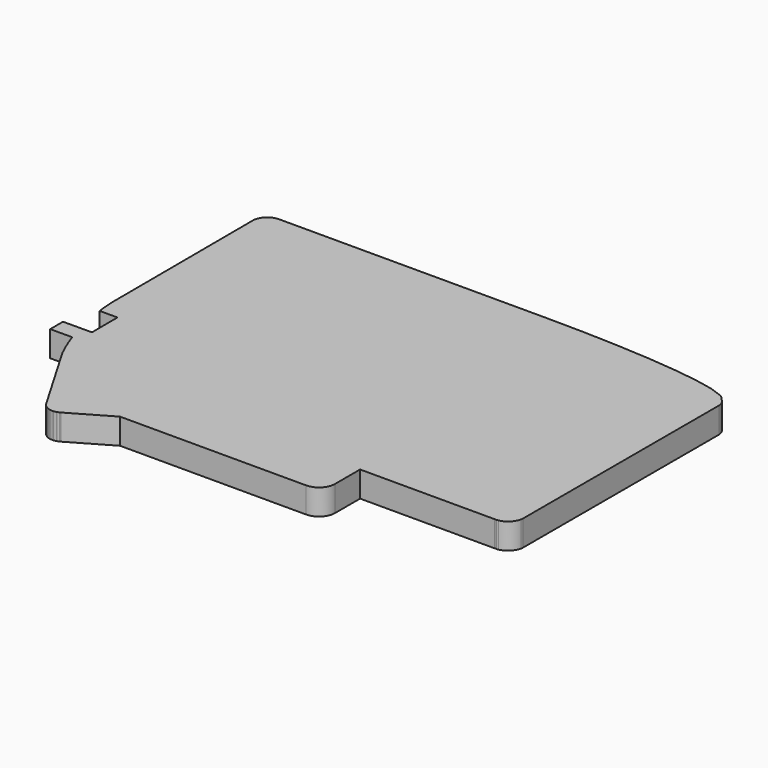
from build123d import *

# Parameters (mm, degrees)
PAD018_DEPTH    = 8
POCKET013_DEPTH = 6
SKETCH064_W     = 20
SKETCH064_H     = 15
PAD019_DEPTH    = 3
SKETCH065_R     = 1.45
POCKET014_DEPTH = 149.538323
SKETCH066_W     = 10
SKETCH066_H     = 20
POCKET015_DEPTH = 6
SKETCH067_W     = 5
SKETCH067_H     = 8
PAD020_DEPTH    = 4
PAD021_DEPTH    = 3


with BuildPart() as part:
    # Sketch062 → Pad018 (new body)
    with BuildSketch(Plane.XY):
        with BuildLine():
            ThreePointArc((14.331049, 53.958076), (14.329401, 54.015983), (14.328712, 54.073909))
            Line((14.131233, 108.554683), (14.328712, 54.073909))
            ThreePointArc((14.131233, 108.554683), (14.131214, 108.572623), (14.131287, 108.590561))
            ThreePointArc((18.658021, 113.117293), (15.46591, 111.782672), (14.131287, 108.590561))
            ThreePointArc((18.658021, 113.117293), (18.669616, 113.117351), (18.681211, 113.11737))
            Line((101.94388, 113.11737), (18.681211, 113.11737))
            ThreePointArc((101.94388, 113.11737), (101.963094, 113.117317), (101.982307, 113.117159))
            Line((113.720987, 112.988269), (101.982307, 113.117159))
            ThreePointArc((113.720987, 112.988269), (113.760941, 112.987602), (113.800884, 112.986479))
            Line((124.730854, 112.616759), (113.800884, 112.986479))
            ThreePointArc((124.730854, 112.616759), (124.775077, 112.614983), (124.819274, 112.612649))
            Line((134.707394, 112.027539), (124.819274, 112.612649))
            ThreePointArc((134.707394, 112.027539), (134.760897, 112.023961), (134.814338, 112.019564))
            Line((143.427438, 111.244494), (134.814338, 112.019564))
            ThreePointArc((143.427438, 111.244494), (143.500111, 111.23719), (143.572616, 111.22837))
            Line((150.677556, 110.28877), (143.572616, 111.22837))
            ThreePointArc((150.677556, 110.28877), (150.793483, 110.271459), (150.908765, 110.250277))
            Line((156.272395, 109.171587), (150.908765, 110.250277))
            ThreePointArc((156.272395, 109.171587), (156.5104, 109.115), (156.743872, 109.041926))
            Line((160.133022, 107.849586), (156.743872, 109.041926))
            ThreePointArc((160.133022, 107.849586), (160.895244, 107.471834), (161.543817, 106.92135))
            Line((162.725347, 105.64078), (161.543817, 106.92135))
            ThreePointArc((162.725347, 105.64078), (163.413102, 104.540852), (163.653, 103.265981))
            Line((163.653, 103.265981), (163.62255, 27.110501))
            ThreePointArc((163.62255, 27.110501), (163.60451, 26.756997), (163.550857, 26.407123))
            ThreePointArc((159.660239, 22.516538), (162.188858, 23.878516), (163.550857, 26.407123))
            ThreePointArc((159.660239, 22.516538), (159.323063, 22.464205), (158.982393, 22.444954))
            Line((158.982393, 22.444954), (158.507799, 22.441306))
            ThreePointArc((158.507799, 22.441306), (158.494348, 22.441228), (158.480896, 22.441202))
            Line((116.551548, 22.441202), (158.480896, 22.441202))
            ThreePointArc((116.551548, 22.441202), (116.524186, 22.427455), (116.51234, 22.399217))
            Line((116.51234, 22.399217), (116.51234, 12.693214))
            ThreePointArc((111.511608, 7.69248), (115.048134, 9.156687), (116.51234, 12.693214))
            Line((53.496079, 7.69248), (111.511608, 7.69248))
            Line((40.903121, 0.40324), (53.496079, 7.69248))
            ThreePointArc((40.903121, 0.40324), (40.82134, 0.357354), (40.738359, 0.313675))
            Line((40.570469, 0.228155), (40.738359, 0.313675))
            ThreePointArc((40.570469, 0.228155), (40.28044, 0.096677), (39.97966, -0.007897))
            Line((39.821, -0.055087), (39.97966, -0.007897))
            ThreePointArc((39.821, -0.055087), (39.4375, -0.145999), (39.04621, -0.193218))
            Line((38.89726, -0.202728), (39.04621, -0.193218))
            ThreePointArc((38.89726, -0.202728), (38.443297, -0.202212), (37.99322, -0.142943))
            Line((37.85444, -0.115413), (37.99322, -0.142943))
            ThreePointArc((37.85444, -0.115413), (37.403892, 0.005662), (36.973449, 0.185583))
            Line((36.845299, 0.249493), (36.973449, 0.185583))
            ThreePointArc((36.845299, 0.249493), (36.477576, 0.461653), (36.138245, 0.716774))
            Line((36.021215, 0.816424), (36.138245, 0.716774))
            ThreePointArc((36.021215, 0.816424), (35.764889, 1.057957), (35.534135, 1.324028))
            Line((35.428675, 1.458768), (35.534135, 1.324028))
            ThreePointArc((35.428675, 1.458768), (35.268511, 1.680768), (35.126187, 1.914607))
            Line((35.047407, 2.056233), (35.126187, 1.914607))
            Line((21.664757, 24.948224), (35.047407, 2.056233))
            ThreePointArc((21.664757, 24.948224), (21.600836, 25.062414), (21.541228, 25.178913))
            ThreePointArc((14.331049, 53.958076), (16.428723, 39.190834), (21.541228, 25.178913))
        make_face()
    extrude(amount=PAD018_DEPTH)

    # Sketch063 → Pocket013 (cut)
    with BuildSketch(Plane.XY):
        with BuildLine():
            ThreePointArc((17.329026, 54.068236), (19.338784, 39.919906), (24.237019, 26.495239))
            ThreePointArc((24.254666, 26.462283), (24.245534, 26.478596), (24.237019, 26.495239))
            Line((24.254666, 26.462283), (37.653506, 3.542597))
            Line((37.653506, 3.542597), (37.747881, 3.372935))
            ThreePointArc((37.791094, 3.307815), (37.768213, 3.33953), (37.747881, 3.372935))
            Line((37.791094, 3.307815), (37.896554, 3.173075))
            ThreePointArc((37.966136, 3.100561), (37.929518, 3.135065), (37.896554, 3.173075))
            Line((37.966136, 3.100561), (38.083166, 3.000911))
            ThreePointArc((38.184174, 2.934156), (38.131642, 2.964465), (38.083166, 3.000911))
            Line((38.184174, 2.934156), (38.312324, 2.870246))
            ThreePointArc((38.43818, 2.827247), (38.373816, 2.844543), (38.312324, 2.870246))
            Line((38.43818, 2.827247), (38.57696, 2.799717))
            ThreePointArc((38.706109, 2.791176), (38.641257, 2.79125), (38.57696, 2.799717))
            Line((38.706109, 2.791176), (38.855059, 2.800686))
            ThreePointArc((38.965743, 2.820419), (38.910957, 2.807432), (38.855059, 2.800686))
            Line((38.965743, 2.820419), (39.124403, 2.867609))
            ThreePointArc((39.208804, 2.901331), (39.167371, 2.882548), (39.124403, 2.867609))
            Line((39.208804, 2.901331), (39.376694, 2.986851))
            ThreePointArc((39.400232, 2.999646), (39.388549, 2.993091), (39.376694, 2.986851))
            Line((39.400232, 2.999646), (52.690443, 10.69248))
            Line((52.690443, 10.69248), (111.512203, 10.69248))
            ThreePointArc((111.512203, 10.69248), (112.926813, 11.278007), (113.51234, 12.692618))
            Line((113.51234, 22.413147), (113.51234, 12.692618))
            ThreePointArc((116.515571, 25.441202), (114.395073, 24.540983), (113.51234, 22.413147))
            Line((116.515571, 25.441202), (158.480896, 25.441202))
            ThreePointArc((158.484739, 25.441217), (158.482818, 25.441206), (158.480896, 25.441202))
            Line((158.959333, 25.444865), (158.484739, 25.441217))
            ThreePointArc((159.056169, 25.455091), (159.008, 25.447615), (158.959333, 25.444865))
            ThreePointArc((159.056169, 25.455091), (160.067546, 25.999845), (160.612308, 27.011218))
            ThreePointArc((160.62255, 27.111701), (160.619973, 27.0612), (160.612308, 27.011218))
            Line((160.653, 103.26718), (160.62255, 27.111701))
            ThreePointArc((160.520478, 103.606437), (160.618729, 103.449305), (160.653, 103.26718))
            Line((160.520478, 103.606437), (159.338948, 104.887007))
            ThreePointArc((159.137406, 105.019612), (159.246295, 104.965648), (159.338948, 104.887007))
            Line((159.137406, 105.019612), (155.748256, 106.211952))
            ThreePointArc((155.680902, 106.230475), (155.714903, 106.222391), (155.748256, 106.211952))
            Line((155.680902, 106.230475), (150.317272, 107.309165))
            ThreePointArc((150.284242, 107.314664), (150.300803, 107.312191), (150.317272, 107.309165))
            Line((150.284242, 107.314664), (143.179302, 108.254264))
            ThreePointArc((143.158563, 108.256568), (143.168944, 108.255524), (143.179302, 108.254264))
            Line((143.158563, 108.256568), (134.545463, 109.031638))
            ThreePointArc((134.530185, 109.032777), (134.537828, 109.032266), (134.545463, 109.031638))
            Line((134.530185, 109.032777), (124.642065, 109.617887))
            ThreePointArc((124.629433, 109.618474), (124.635751, 109.61822), (124.642065, 109.617887))
            Line((124.629433, 109.618474), (113.699463, 109.988194))
            ThreePointArc((113.68805, 109.98845), (113.693757, 109.988355), (113.699463, 109.988194))
            Line((113.68805, 109.98845), (101.94937, 110.11734))
            ThreePointArc((101.94388, 110.11737), (101.946625, 110.117362), (101.94937, 110.11734))
            Line((101.94388, 110.11737), (18.681211, 110.11737))
            ThreePointArc((18.677898, 110.117359), (18.679554, 110.117367), (18.681211, 110.11737))
            ThreePointArc((18.677898, 110.117359), (17.58723, 109.661351), (17.131221, 108.570683))
            ThreePointArc((17.131213, 108.565558), (17.131211, 108.56812), (17.131221, 108.570683))
            Line((17.131213, 108.565558), (17.328692, 54.084784))
            ThreePointArc((17.329026, 54.068236), (17.328791, 54.076508), (17.328692, 54.084784))
        make_face()
    extrude(amount=POCKET013_DEPTH, mode=Mode.SUBTRACT)

    # Sketch064 → Pad019 (new body)
    with BuildSketch(Plane(origin=(14.524525, 0.052648, 0), x_dir=(0.003625, -0.999993, 0), z_dir=(-0.999993, -0.003625, 0))):
        with Locations((-75.54892, 0.5)):
            Rectangle(SKETCH064_W, SKETCH064_H)
    extrude(amount=-PAD019_DEPTH)

    # Sketch065 (on Face112 of Pad019) → Pocket014 (cut, through all)
    with BuildSketch(Plane(origin=(14.524525, 0.052648, 0), x_dir=(0.003625, -0.999993, 0), z_dir=(-0.999993, -0.003625, 0))):
        with Locations((-75.54892, -2.25)):
            Circle(SKETCH065_R)
    extrude(amount=-POCKET014_DEPTH, mode=Mode.SUBTRACT)

    # Sketch066 (on Face3 of Pocket014) → Pocket015 (cut)
    with BuildSketch(Plane(origin=(14.524525, 0.052648, 0), x_dir=(0.003625, -0.999993, 0), z_dir=(-0.999993, -0.003625, 0))):
        with Locations((-43.04892, -2)):
            Rectangle(SKETCH066_W, SKETCH066_H)
    extrude(amount=-POCKET015_DEPTH, mode=Mode.SUBTRACT)

    # Sketch067 (on Face3 of Pocket015) → Pad020 (new body)
    with BuildSketch(Plane(origin=(14.524525, 0.052648, 0), x_dir=(0.003625, -0.999993, 0), z_dir=(-0.999993, -0.003625, 0))):
        with Locations((-35.54892, 4)):
            Rectangle(SKETCH067_W, SKETCH067_H)
    extrude(amount=-PAD020_DEPTH)

    # Sketch067 (on Face3 of Pocket015) → Pad021 (new body)
    with BuildSketch(Plane(origin=(14.524525, 0.052648, 0), x_dir=(0.003625, -0.999993, 0), z_dir=(-0.999993, -0.003625, 0))):
        with Locations((-35.54892, 4)):
            Rectangle(SKETCH067_W, SKETCH067_H)
    extrude(amount=PAD021_DEPTH)


solid = part.part
